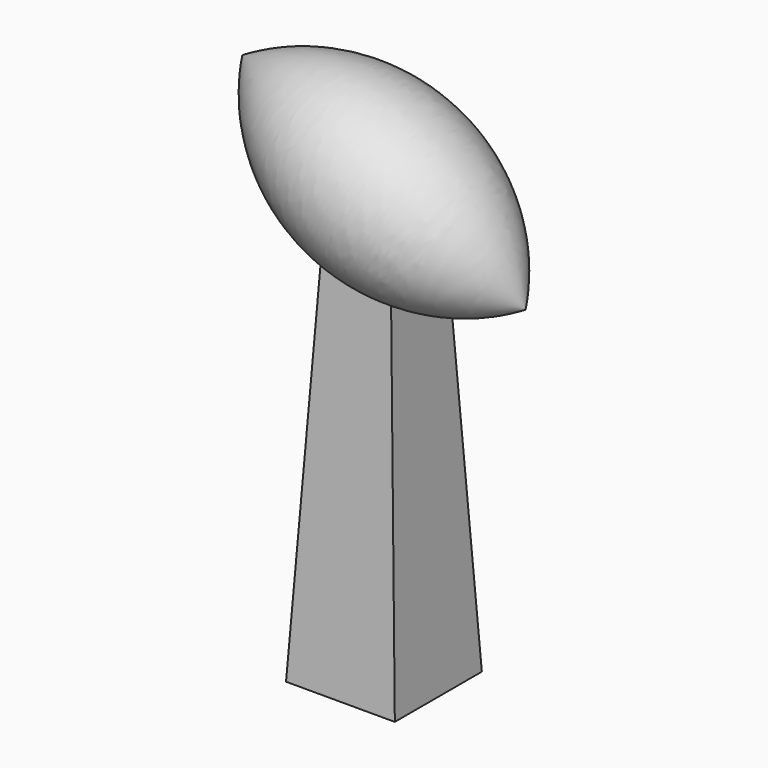
from build123d import *

# Parameters (mm, degrees)
F0_W     = 12.7
F0_H     = 12.7
F1_DEPTH = 50.8
F1_TAPER = 3


with BuildPart() as f1:
    # F0 (on Top) → F1 (new body)
    with BuildSketch(Plane.XY):
        Rectangle(F0_W, F0_H)
    extrude(amount=F1_DEPTH, taper=F1_TAPER)

    # F2 (on Front) → F3 (revolve)
    with BuildSketch(Plane.XZ):
        with BuildLine():
            Line((-16.5301354045, 58.5081287294), (16.5301354045, 43.0918712706))
            ThreePointArc((16.5301354045, 43.0918712706), (4.0254389431, 59.4325816715), (-16.5301354045, 58.5081287294))
        make_face()
    revolve(axis=Axis((4.2638870595, 0, 48.8117168106), (0.906307787, 0, -0.4226182617)))


solid = f1.part
